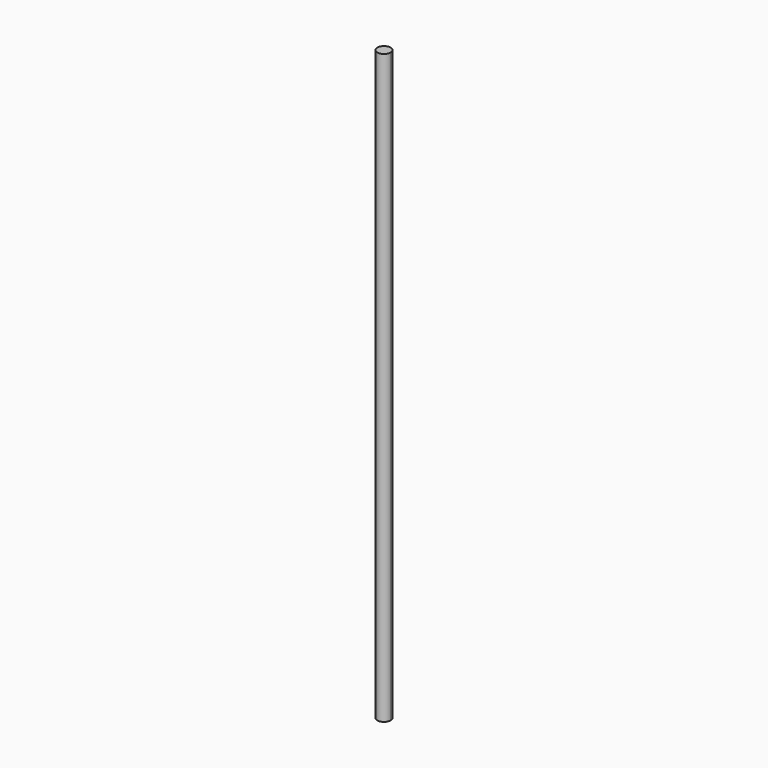
from build123d import *

# Parameters (mm, degrees)
F1_DEPTH = 558.8


with BuildPart() as f1:
    # F0 (on Top) → F1 (new body)
    with BuildSketch(Plane.XY):
        with BuildLine():
            ThreePointArc((-4.841338, 4.109008), (-2.188607, -5.960914), (6.35, 0))
            ThreePointArc((6.35, 0), (2.188607, 5.960914), (-4.841338, 4.109008))
        make_face()
    extrude(amount=F1_DEPTH)


solid = f1.part
